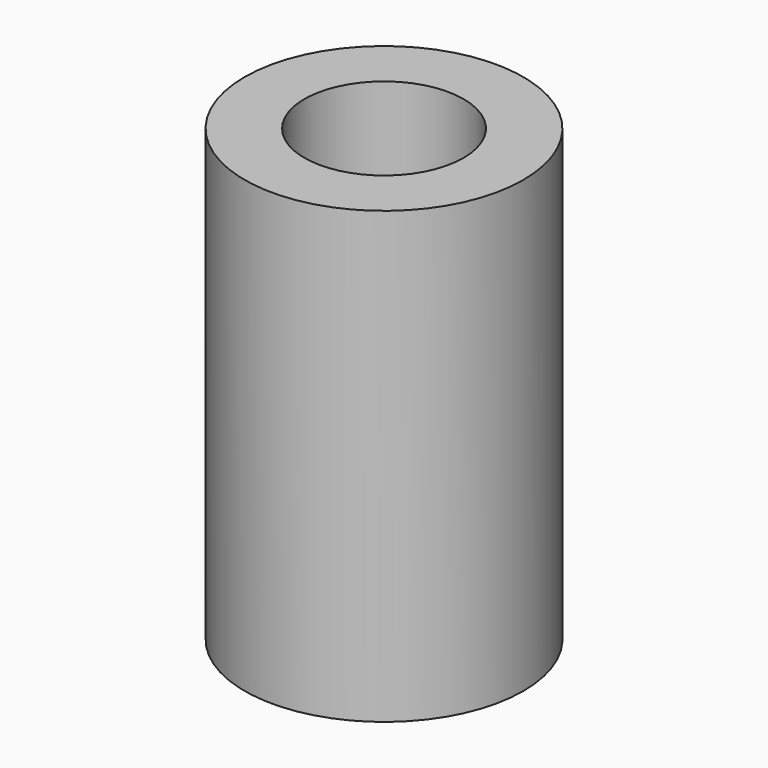
from build123d import *

# Parameters (mm, degrees)
SKETCH_R   = 3.5
SKETCH_R_2 = 2
PAD_DEPTH  = 11.3


with BuildPart() as part:
    # Sketch → Pad (new body)
    with BuildSketch(Plane.XY):
        Circle(SKETCH_R)
        Circle(SKETCH_R_2, mode=Mode.SUBTRACT)
    extrude(amount=PAD_DEPTH)


solid = part.part
